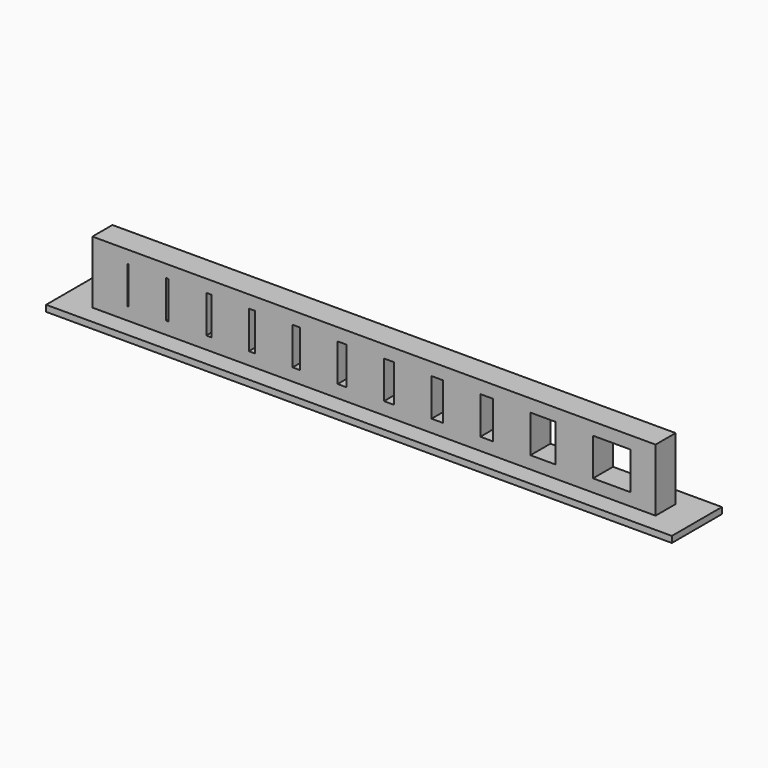
from build123d import *

# Parameters (mm, degrees)
SKETCH_W       = 50
SKETCH_H       = 5
PAD_DEPTH      = 0.5
SKETCH001_W    = 45
SKETCH001_H    = 2
PAD001_DEPTH   = 5
SKETCH002_W    = 3
SKETCH002_H    = 3
SKETCH002_W_2  = 2
SKETCH002_W_3  = 1
SKETCH002_W_4  = 0.9
SKETCH002_W_5  = 0.8
SKETCH002_W_6  = 0.7
SKETCH002_W_7  = 0.6
SKETCH002_W_8  = 0.5
SKETCH002_W_9  = 0.4
SKETCH002_W_10 = 0.2
SKETCH002_W_11 = 0.1
POCKET_DEPTH   = 3.501


with BuildPart() as part:
    # Sketch → Pad (new body)
    with BuildSketch(Plane.XY):
        Rectangle(SKETCH_W, SKETCH_H)
    extrude(amount=PAD_DEPTH)

    # Sketch001 (on Face6 of Pad) → Pad001 (join)
    with BuildSketch(Plane.XY.offset(0.5)):
        Rectangle(SKETCH001_W, SKETCH001_H)
    extrude(amount=PAD001_DEPTH)

    # Sketch002 (on Face7 of Pad001) → Pocket (cut, through all)
    with BuildSketch(Plane.XZ.offset(1)):
        with Locations((19, 3)):
            Rectangle(SKETCH002_W, SKETCH002_H)
        with Locations((13.5, 3)):
            Rectangle(SKETCH002_W_2, SKETCH002_H)
        with Locations((9, 3)):
            Rectangle(SKETCH002_W_3, SKETCH002_H)
        with Locations((5.05, 3)):
            Rectangle(SKETCH002_W_4, SKETCH002_H)
        with Locations((1.2, 3)):
            Rectangle(SKETCH002_W_5, SKETCH002_H)
        with Locations((-2.55, 3)):
            Rectangle(SKETCH002_W_6, SKETCH002_H)
        with Locations((-6.2, 3)):
            Rectangle(SKETCH002_W_7, SKETCH002_H)
        with Locations((-9.75, 3)):
            Rectangle(SKETCH002_W_8, SKETCH002_H)
        with Locations((-13.2, 3)):
            Rectangle(SKETCH002_W_9, SKETCH002_H)
        with Locations((-16.5, 3)):
            Rectangle(SKETCH002_W_10, SKETCH002_H)
        with Locations((-19.65, 3)):
            Rectangle(SKETCH002_W_11, SKETCH002_H)
    extrude(amount=-POCKET_DEPTH, mode=Mode.SUBTRACT)


solid = part.part
